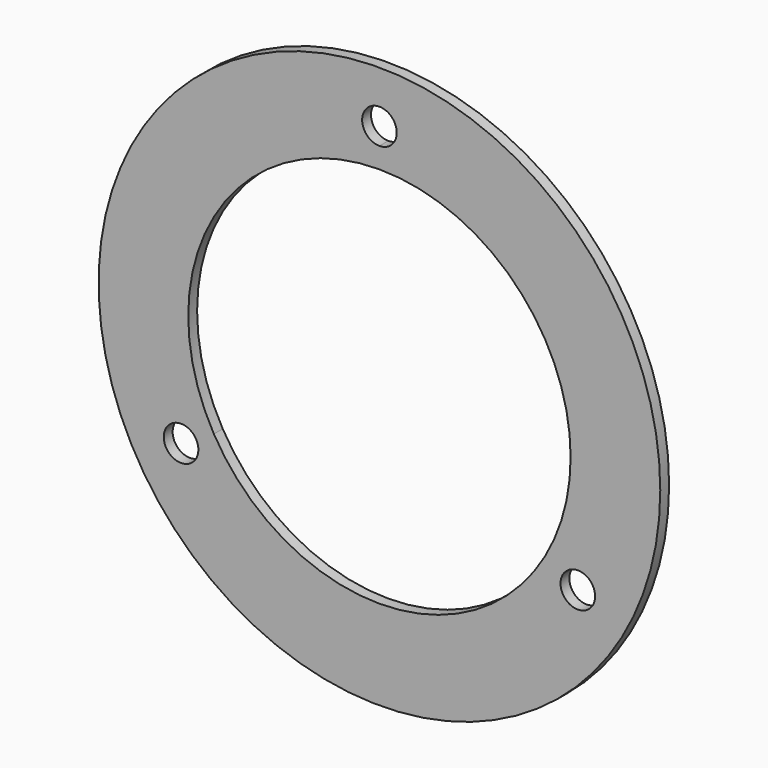
from build123d import *

# Parameters (mm, degrees)
F0_R     = 50.75
F1_DEPTH = 2


with BuildPart() as f1:
    # F0 (on Front) → F1 (new body)
    with BuildSketch(Plane.XZ):
        Circle(F0_R)
        with BuildLine():
            ThreePointArc((-32.725, -20.698007), (-38.868518, -21.506817), (-33.143671, -19.135507))
            ThreePointArc((-33.143671, -19.135507), (-32.831482, -19.889198), (-32.725, -20.698007))
        make_face(mode=Mode.SUBTRACT)
        with BuildLine():
            ThreePointArc((38.975, -20.698007), (35.04119, -23.716525), (33.143671, -19.135507))
            ThreePointArc((33.143671, -19.135507), (36.65881, -17.679489), (38.975, -20.698007))
        make_face(mode=Mode.SUBTRACT)
        with BuildLine():
            ThreePointArc((-29.921178, -17.275), (-29.921178, 17.275), (0, 34.55))
            ThreePointArc((0, 34.55), (24.430539, 24.430539), (34.55, 0))
            ThreePointArc((34.55, 0), (33.372737, -8.942198), (29.921178, -17.275))
            ThreePointArc((29.921178, -17.275), (0, -34.55), (-29.921178, -17.275))
        make_face(mode=Mode.SUBTRACT)
        with BuildLine():
            ThreePointArc((0, 38.271014), (-2.209709, 43.605723), (3.125, 41.396014))
            ThreePointArc((3.125, 41.396014), (2.209709, 39.186306), (0, 38.271014))
        make_face(mode=Mode.SUBTRACT)
        Circle(F0_R)
        with BuildLine():
            ThreePointArc((-32.725, -20.698007), (-38.868518, -21.506817), (-33.143671, -19.135507))
            ThreePointArc((-33.143671, -19.135507), (-32.831482, -19.889198), (-32.725, -20.698007))
        make_face(mode=Mode.SUBTRACT)
        with BuildLine():
            ThreePointArc((38.975, -20.698007), (35.04119, -23.716525), (33.143671, -19.135507))
            ThreePointArc((33.143671, -19.135507), (36.65881, -17.679489), (38.975, -20.698007))
        make_face(mode=Mode.SUBTRACT)
        with BuildLine():
            ThreePointArc((-29.921178, -17.275), (-29.921178, 17.275), (0, 34.55))
            ThreePointArc((0, 34.55), (24.430539, 24.430539), (34.55, 0))
            ThreePointArc((34.55, 0), (33.372737, -8.942198), (29.921178, -17.275))
            ThreePointArc((29.921178, -17.275), (0, -34.55), (-29.921178, -17.275))
        make_face(mode=Mode.SUBTRACT)
        with BuildLine():
            ThreePointArc((0, 38.271014), (-2.209709, 43.605723), (3.125, 41.396014))
            ThreePointArc((3.125, 41.396014), (2.209709, 39.186306), (0, 38.271014))
        make_face(mode=Mode.SUBTRACT)
        Circle(F0_R)
        with BuildLine():
            ThreePointArc((-32.725, -20.698007), (-38.868518, -21.506817), (-33.143671, -19.135507))
            ThreePointArc((-33.143671, -19.135507), (-32.831482, -19.889198), (-32.725, -20.698007))
        make_face(mode=Mode.SUBTRACT)
        with BuildLine():
            ThreePointArc((38.975, -20.698007), (35.04119, -23.716525), (33.143671, -19.135507))
            ThreePointArc((33.143671, -19.135507), (36.65881, -17.679489), (38.975, -20.698007))
        make_face(mode=Mode.SUBTRACT)
        with BuildLine():
            ThreePointArc((-29.921178, -17.275), (-29.921178, 17.275), (0, 34.55))
            ThreePointArc((0, 34.55), (24.430539, 24.430539), (34.55, 0))
            ThreePointArc((34.55, 0), (33.372737, -8.942198), (29.921178, -17.275))
            ThreePointArc((29.921178, -17.275), (0, -34.55), (-29.921178, -17.275))
        make_face(mode=Mode.SUBTRACT)
        with BuildLine():
            ThreePointArc((0, 38.271014), (-2.209709, 43.605723), (3.125, 41.396014))
            ThreePointArc((3.125, 41.396014), (2.209709, 39.186306), (0, 38.271014))
        make_face(mode=Mode.SUBTRACT)
        Circle(F0_R)
        with BuildLine():
            ThreePointArc((-32.725, -20.698007), (-38.868518, -21.506817), (-33.143671, -19.135507))
            ThreePointArc((-33.143671, -19.135507), (-32.831482, -19.889198), (-32.725, -20.698007))
        make_face(mode=Mode.SUBTRACT)
        with BuildLine():
            ThreePointArc((38.975, -20.698007), (35.04119, -23.716525), (33.143671, -19.135507))
            ThreePointArc((33.143671, -19.135507), (36.65881, -17.679489), (38.975, -20.698007))
        make_face(mode=Mode.SUBTRACT)
        with BuildLine():
            ThreePointArc((-29.921178, -17.275), (-29.921178, 17.275), (0, 34.55))
            ThreePointArc((0, 34.55), (24.430539, 24.430539), (34.55, 0))
            ThreePointArc((34.55, 0), (33.372737, -8.942198), (29.921178, -17.275))
            ThreePointArc((29.921178, -17.275), (0, -34.55), (-29.921178, -17.275))
        make_face(mode=Mode.SUBTRACT)
        with BuildLine():
            ThreePointArc((0, 38.271014), (-2.209709, 43.605723), (3.125, 41.396014))
            ThreePointArc((3.125, 41.396014), (2.209709, 39.186306), (0, 38.271014))
        make_face(mode=Mode.SUBTRACT)
        Circle(F0_R)
        with BuildLine():
            ThreePointArc((-32.725, -20.698007), (-38.868518, -21.506817), (-33.143671, -19.135507))
            ThreePointArc((-33.143671, -19.135507), (-32.831482, -19.889198), (-32.725, -20.698007))
        make_face(mode=Mode.SUBTRACT)
        with BuildLine():
            ThreePointArc((38.975, -20.698007), (35.04119, -23.716525), (33.143671, -19.135507))
            ThreePointArc((33.143671, -19.135507), (36.65881, -17.679489), (38.975, -20.698007))
        make_face(mode=Mode.SUBTRACT)
        with BuildLine():
            ThreePointArc((-29.921178, -17.275), (-29.921178, 17.275), (0, 34.55))
            ThreePointArc((0, 34.55), (24.430539, 24.430539), (34.55, 0))
            ThreePointArc((34.55, 0), (33.372737, -8.942198), (29.921178, -17.275))
            ThreePointArc((29.921178, -17.275), (0, -34.55), (-29.921178, -17.275))
        make_face(mode=Mode.SUBTRACT)
        with BuildLine():
            ThreePointArc((0, 38.271014), (-2.209709, 43.605723), (3.125, 41.396014))
            ThreePointArc((3.125, 41.396014), (2.209709, 39.186306), (0, 38.271014))
        make_face(mode=Mode.SUBTRACT)
        Circle(F0_R)
        with BuildLine():
            ThreePointArc((-32.725, -20.698007), (-38.868518, -21.506817), (-33.143671, -19.135507))
            ThreePointArc((-33.143671, -19.135507), (-32.831482, -19.889198), (-32.725, -20.698007))
        make_face(mode=Mode.SUBTRACT)
        with BuildLine():
            ThreePointArc((38.975, -20.698007), (35.04119, -23.716525), (33.143671, -19.135507))
            ThreePointArc((33.143671, -19.135507), (36.65881, -17.679489), (38.975, -20.698007))
        make_face(mode=Mode.SUBTRACT)
        with BuildLine():
            ThreePointArc((-29.921178, -17.275), (-29.921178, 17.275), (0, 34.55))
            ThreePointArc((0, 34.55), (24.430539, 24.430539), (34.55, 0))
            ThreePointArc((34.55, 0), (33.372737, -8.942198), (29.921178, -17.275))
            ThreePointArc((29.921178, -17.275), (0, -34.55), (-29.921178, -17.275))
        make_face(mode=Mode.SUBTRACT)
        with BuildLine():
            ThreePointArc((0, 38.271014), (-2.209709, 43.605723), (3.125, 41.396014))
            ThreePointArc((3.125, 41.396014), (2.209709, 39.186306), (0, 38.271014))
        make_face(mode=Mode.SUBTRACT)
        Circle(F0_R)
        with BuildLine():
            ThreePointArc((-32.725, -20.698007), (-38.868518, -21.506817), (-33.143671, -19.135507))
            ThreePointArc((-33.143671, -19.135507), (-32.831482, -19.889198), (-32.725, -20.698007))
        make_face(mode=Mode.SUBTRACT)
        with BuildLine():
            ThreePointArc((38.975, -20.698007), (35.04119, -23.716525), (33.143671, -19.135507))
            ThreePointArc((33.143671, -19.135507), (36.65881, -17.679489), (38.975, -20.698007))
        make_face(mode=Mode.SUBTRACT)
        with BuildLine():
            ThreePointArc((-29.921178, -17.275), (-29.921178, 17.275), (0, 34.55))
            ThreePointArc((0, 34.55), (24.430539, 24.430539), (34.55, 0))
            ThreePointArc((34.55, 0), (33.372737, -8.942198), (29.921178, -17.275))
            ThreePointArc((29.921178, -17.275), (0, -34.55), (-29.921178, -17.275))
        make_face(mode=Mode.SUBTRACT)
        with BuildLine():
            ThreePointArc((0, 38.271014), (-2.209709, 43.605723), (3.125, 41.396014))
            ThreePointArc((3.125, 41.396014), (2.209709, 39.186306), (0, 38.271014))
        make_face(mode=Mode.SUBTRACT)
    extrude(amount=F1_DEPTH)


solid = f1.part
